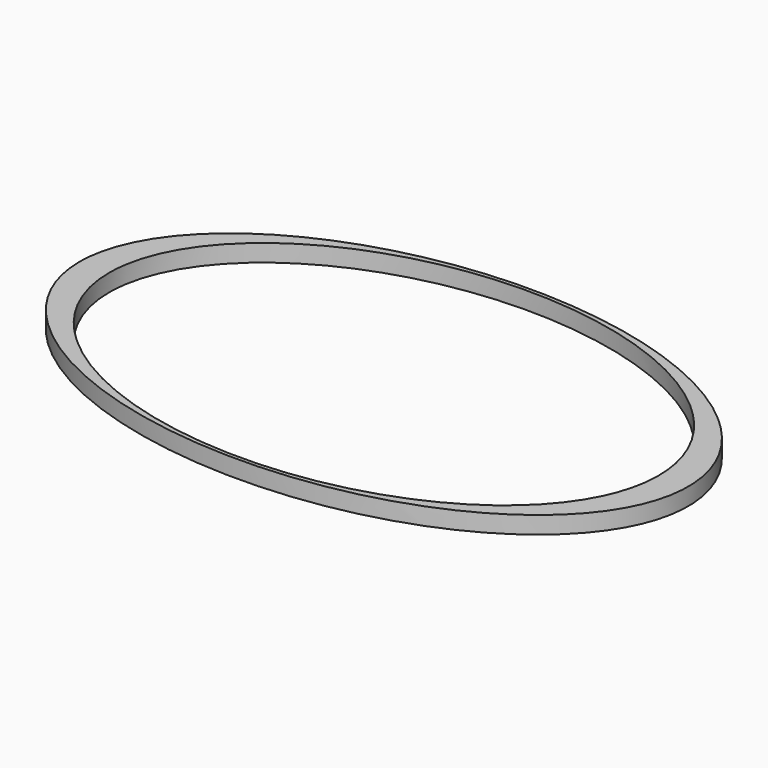
from build123d import *

# Parameters (mm, degrees)
F1_DEPTH = 1.5875


with BuildPart() as f1:
    # F0 (on Top) → F1 (new body)
    with BuildSketch(Plane.XY):
        with BuildLine():
            add(Edge.make_bspline(
                [(10.357767, -38.005762), (10.357767, -67.237606), (52.272948, -52.621684), (94.188129, -38.005762), (52.272948, -23.389839), (10.357767, -8.773917), (10.357767, -38.005762)],
                knots=[0, 0, 0, 2.094395, 2.094395, 4.18879, 4.18879, 6.283185, 6.283185, 6.283185], degree=2, weights=[1, 0.5, 1, 0.5, 1, 0.5, 1]))
        make_face()
        with BuildLine():
            add(Edge.make_bspline(
                [(13.082307, -38.005762), (13.082307, -66.657882), (50.910678, -52.331822), (88.73905, -38.005762), (50.910678, -23.679701), (13.082307, -9.353641), (13.082307, -38.005762)],
                knots=[0, 0, 0, 2.094395, 2.094395, 4.18879, 4.18879, 6.283185, 6.283185, 6.283185], degree=2, weights=[1, 0.5, 1, 0.5, 1, 0.5, 1]))
        make_face(mode=Mode.SUBTRACT)
    extrude(amount=F1_DEPTH)


solid = f1.part
